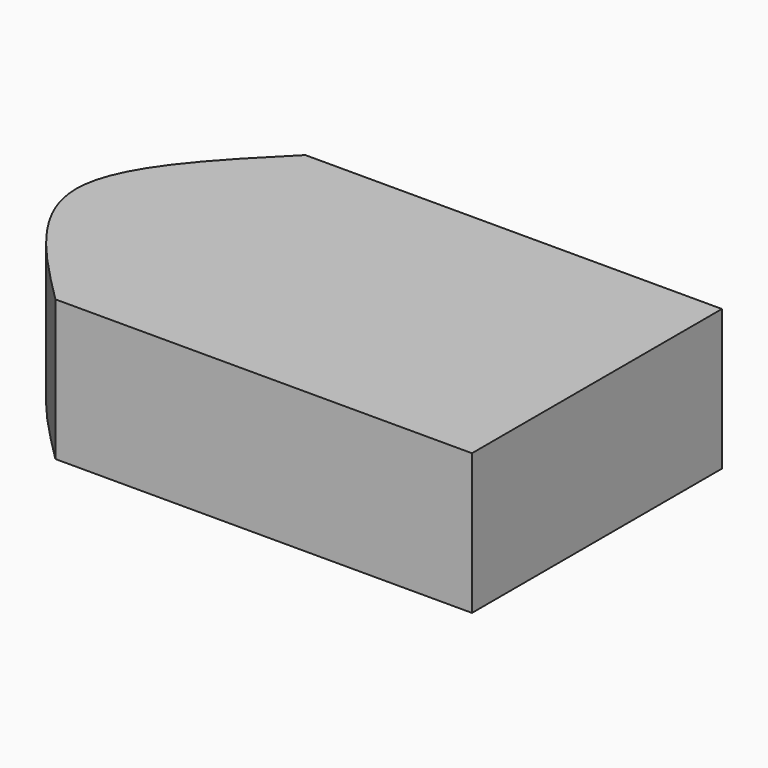
from build123d import *

# Parameters (mm, degrees)
F0_W     = 101.6
F0_H     = 38.1
F1_DEPTH = 34.29


with BuildPart() as f1:
    # F0 (on Top) → F1 (new body)
    with BuildSketch(Plane.XY):
        with Locations((0, -19.05)):
            Rectangle(F0_W, F0_H)
        with BuildLine():
            add(Edge.make_bspline(
                [(-76.2, 0), (-76.2, -12.7), (-63.5, -25.4), (-50.8, -38.1)],
                knots=[45.790501, 45.790501, 45.790501, 45.790501, 91.581002, 91.581002, 91.581002, 91.581002], degree=3))
            Line((-50.8, -38.1), (-50.8, 0))
            Line((-50.8, 0), (-76.2, 0))
        make_face()
        with Locations((0, 19.05)):
            Rectangle(F0_W, F0_H)
        with BuildLine():
            Line((-76.2, 0), (-50.8, 0))
            Line((-50.8, 0), (-50.8, 38.1))
            add(Edge.make_bspline(
                [(-50.8, 38.1), (-63.5, 25.4), (-76.2, 12.7), (-76.2, 0)],
                knots=[0, 0, 0, 0, 45.790501, 45.790501, 45.790501, 45.790501], degree=3))
        make_face()
    extrude(amount=F1_DEPTH)


solid = f1.part
